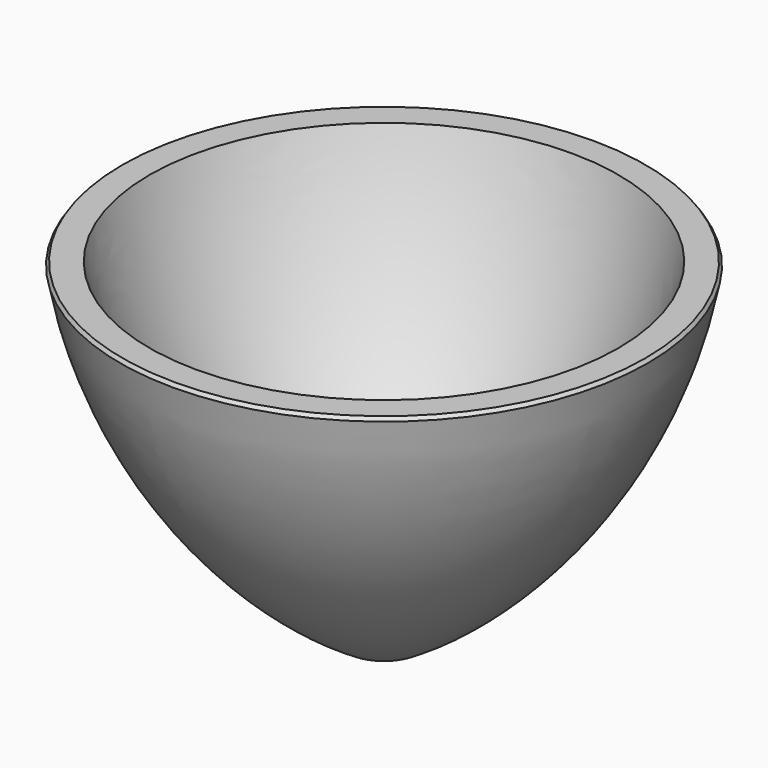
from build123d import *

# Parameters (mm, degrees)
F0_W     = 3.175
F0_H     = 12.7
F2_R     = 4.445
F3_DEPTH = 25.4


with BuildPart() as f1:
    # F0 (on Front) → F1 (revolve)
    with BuildSketch(Plane.XZ):
        with Locations((1.5875, 6.35)):
            Rectangle(F0_W, F0_H)
        with BuildLine():
            ThreePointArc((27.468873, 52.358568), (17.033302, 30.244378), (0, 12.7))
            Line((0, 12.7), (3.175, 12.7))
            ThreePointArc((3.175, 12.7), (21.352687, 29.272927), (30.922377, 51.933715))
            Line((30.922377, 51.933715), (30.643873, 52.358568))
            Line((30.643873, 52.358568), (27.468873, 52.358568))
        make_face()
    revolve(axis=Axis((0, 0, 6.35), (0, 0, 1)))

    # F2 (on face) → F3 (cut)
    with BuildSketch(Plane(origin=(0, 0, 0), x_dir=(1, 0, 0), z_dir=(0, 0, -1))):
        Circle(F2_R)
    extrude(amount=-F3_DEPTH, mode=Mode.SUBTRACT)


solid = f1.part
